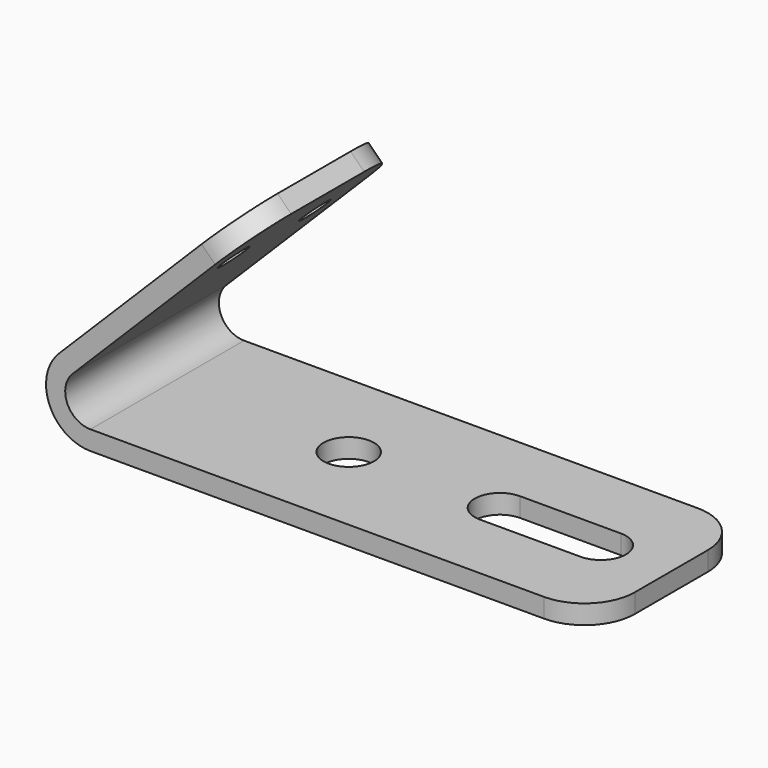
from build123d import *

# Parameters (mm, degrees)
F1_DEPTH = 19.05
F2_R     = 2.5
F3_DEPTH = 1.9
F4_R     = 1.5
F5_DEPTH = 1.9
F6_R     = 5


with BuildPart() as f1:
    # F0 (on Front) → F1 (new body)
    with BuildSketch(Plane.XZ):
        with BuildLine():
            Line((-50, 0), (0, 0))
            Line((0, 0), (0, 1.9))
            Line((0, 1.9), (-50, 1.9))
            ThreePointArc((-50, 1.9), (-52.3096988313, 3.4432914191), (-51.767766953, 6.167766953))
            Line((-51.767766953, 6.167766953), (-34.0900974233, 23.8454364826))
            Line((-34.0900974233, 23.8454364826), (-35.4336003076, 25.1889393669))
            Line((-35.4336003076, 25.1889393669), (-53.1112698372, 7.5112698372))
            ThreePointArc((-53.1112698372, 7.5112698372), (-54.065069943, 2.7161928976), (-50, 0))
        make_face()
    extrude(amount=F1_DEPTH)

    # F2 (on face) → F3 (cut, through all)
    with BuildSketch(Plane.XY.offset(1.9)):
        with Locations((-32, -9.525)):
            Circle(F2_R)
        with BuildLine():
            Line((-17, -12.025), (-7, -12.025))
            ThreePointArc((-7, -12.025), (-4.5, -9.525), (-7, -7.025))
            Line((-7, -7.025), (-17, -7.025))
            ThreePointArc((-17, -7.025), (-19.5, -9.525), (-17, -12.025))
        make_face()
    extrude(amount=-F3_DEPTH, mode=Mode.SUBTRACT)

    # F4 (on face) → F5 (cut, through all)
    with BuildSketch(Plane(origin=(-30.3112698372, 0, 30.3112698372), x_dir=(0, -1, 0), z_dir=(-0.7071067812, 0, 0.7071067812))):
        with Locations((14.55, -14.7440692221)):
            Circle(F4_R)
        with Locations((4.5, -14.7440692221)):
            Circle(F4_R)
    extrude(amount=-F5_DEPTH, mode=Mode.SUBTRACT)

    # F6
    f6_edges = [f1.edges().sort_by_distance(p)[0] for p in [
        (-34.761849, 0, 24.517188),
        (-34.761849, -19.05, 24.517188),
        (0, 0, 0.95),
        (0, -19.05, 0.95),
    ]]
    fillet(f6_edges, radius=F6_R)


solid = f1.part
